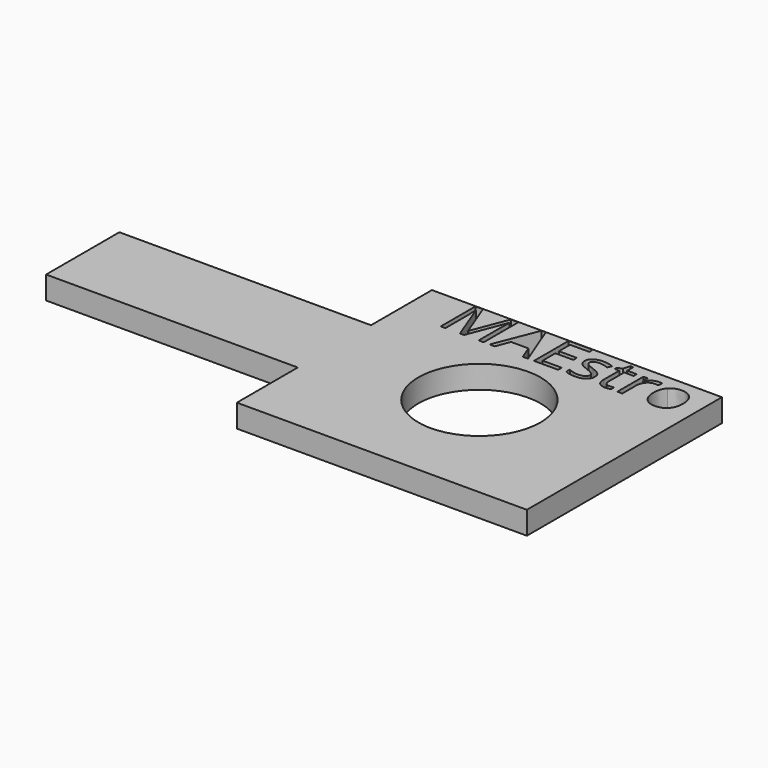
from build123d import *

# Parameters (mm, degrees)
F0_R     = 8
F0_W     = 3.0211615264
F0_H     = 12
F0_W_2   = 32.9788384736
F1_DEPTH = 3


with BuildPart() as f1:
    # F0 (on Top) → F1 (new body)
    with BuildSketch(Plane.XY):
        Polygon((14.9788384736, 6), (18, 6), (18, -6), (14.9788384736, -6), (14.9788384736, -15.9729579464), (52.9788384736, -15.9729579464), (52.9788384736, 15.9729579464), (14.9788384736, 15.9729579464), align=None)
        with Locations((33.9788384736, 0)):
            Circle(F0_R, mode=Mode.SUBTRACT)
        with BuildLine():
            Line((23.7611867672, 10.2442298084), (23.2290913585, 10.2442298084))
            Line((23.2290913585, 10.2442298084), (21.3021103226, 15.2792447734))
            Line((21.3021103226, 15.2792447734), (21.2710299833, 15.2792447734))
            add(Edge.make_bspline(
                [(21.2710299833, 15.2792447734), (21.3257313804, 14.6812590455), (21.3257313804, 13.8570084475)],
                knots=[0, 0, 0, 1, 1, 1], degree=2))
            Line((21.3257313804, 13.8570084475), (21.3257313804, 10.2442298084))
            Line((21.3257313804, 10.2442298084), (20.7153135168, 10.2442298084))
            Line((20.7153135168, 10.2442298084), (20.7153135168, 15.9244726171))
            Line((20.7153135168, 15.9244726171), (21.709884374, 15.9244726171))
            Line((21.709884374, 15.9244726171), (23.5088144121, 11.2388006657))
            Line((23.5088144121, 11.2388006657), (23.5398947514, 11.2388006657))
            Line((23.5398947514, 11.2388006657), (25.3537433524, 15.9244726171))
            Line((25.3537433524, 15.9244726171), (26.3408549282, 15.9244726171))
            Line((26.3408549282, 15.9244726171), (26.3408549282, 10.2442298084))
            Line((26.3408549282, 10.2442298084), (25.6807085217, 10.2442298084))
            Line((25.6807085217, 10.2442298084), (25.6807085217, 13.9042505632))
            add(Edge.make_bspline(
                [(25.6807085217, 13.9042505632), (25.6807085217, 14.5333166305), (25.7354099189, 15.271785492)],
                knots=[0, 0, 0, 1, 1, 1], degree=2))
            Line((25.7354099189, 15.271785492), (25.7043295796, 15.271785492))
            Line((25.7043295796, 15.271785492), (23.7611867672, 10.2442298084))
        make_face(mode=Mode.SUBTRACT)
        Polygon((32.1528783754, 10.2442298084), (31.4691109111, 10.2442298084), (30.7617223888, 12.050619128), (28.4853983392, 12.050619128), (27.786712312, 10.2442298084), (27.1178634105, 10.2442298084), (29.3631071208, 15.9480936749), (29.9188235873, 15.9480936749), align=None, mode=Mode.SUBTRACT)
        Polygon((36.1000814652, 10.834756255), (36.1000814652, 10.2442298084), (32.9336164984, 10.2442298084), (32.9336164984, 15.9244726171), (36.1000814652, 15.9244726171), (36.1000814652, 15.3376758113), (33.5937629049, 15.3376758113), (33.5937629049, 13.5076654339), (35.9484094095, 13.5076654339), (35.9484094095, 12.9245982688), (33.5937629049, 12.9245982688), (33.5937629049, 10.834756255), align=None, mode=Mode.SUBTRACT)
        with BuildLine():
            add(Edge.make_bspline(
                [(39.7414540164, 12.1090501658), (40.0075017208, 11.8293271122), (40.0075017208, 11.4053912843)],
                knots=[0, 0, 0, 1, 1, 1], degree=2))
            add(Edge.make_bspline(
                [(40.0075017208, 11.4053912843), (40.0075017208, 10.8111351971), (39.5649176893, 10.4885212753)],
                knots=[0, 0, 0, 1, 1, 1], degree=2))
            add(Edge.make_bspline(
                [(39.5649176893, 10.4885212753), (39.1223336578, 10.1659073534), (38.3217041177, 10.1659073534)],
                knots=[0, 0, 0, 1, 1, 1], degree=2))
            add(Edge.make_bspline(
                [(38.3217041177, 10.1659073534), (37.4750756754, 10.1659073534), (37.0014113047, 10.4344414849)],
                knots=[0, 0, 0, 1, 1, 1], degree=2))
            Line((37.0014113047, 10.4344414849), (37.0014113047, 11.0324272128))
            add(Edge.make_bspline(
                [(37.0014113047, 11.0324272128), (37.3084850568, 10.8770255164), (37.6596928908, 10.788135746)],
                knots=[0, 0, 0, 1, 1, 1], degree=2))
            add(Edge.make_bspline(
                [(37.6596928908, 10.788135746), (38.0109007248, 10.6992459757), (38.3378658941, 10.6992459757)],
                knots=[0, 0, 0, 1, 1, 1], degree=2))
            add(Edge.make_bspline(
                [(38.3378658941, 10.6992459757), (38.8426106042, 10.6992459757), (39.1142527696, 10.8602421332)],
                knots=[0, 0, 0, 1, 1, 1], degree=2))
            add(Edge.make_bspline(
                [(39.1142527696, 10.8602421332), (39.385894935, 11.0212382907), (39.385894935, 11.3519331007)],
                knots=[0, 0, 0, 1, 1, 1], degree=2))
            add(Edge.make_bspline(
                [(39.385894935, 11.3519331007), (39.385894935, 11.6005758151), (39.1708189871, 11.7771121422)],
                knots=[0, 0, 0, 1, 1, 1], degree=2))
            add(Edge.make_bspline(
                [(39.1708189871, 11.7771121422), (38.9557430392, 11.9536484694), (38.3291633991, 12.1948319023)],
                knots=[0, 0, 0, 1, 1, 1], degree=2))
            add(Edge.make_bspline(
                [(38.3291633991, 12.1948319023), (37.7349073119, 12.416123918), (37.4843997772, 12.581471323)],
                knots=[0, 0, 0, 1, 1, 1], degree=2))
            add(Edge.make_bspline(
                [(37.4843997772, 12.581471323), (37.2338922425, 12.7468187281), (37.1114357057, 12.9563002149)],
                knots=[0, 0, 0, 1, 1, 1], degree=2))
            add(Edge.make_bspline(
                [(37.1114357057, 12.9563002149), (36.9889791689, 13.1657817017), (36.9889791689, 13.4566936775)],
                knots=[0, 0, 0, 1, 1, 1], degree=2))
            add(Edge.make_bspline(
                [(36.9889791689, 13.4566936775), (36.9889791689, 13.9776001639), (37.4129149969, 14.2790794551)],
                knots=[0, 0, 0, 1, 1, 1], degree=2))
            add(Edge.make_bspline(
                [(37.4129149969, 14.2790794551), (37.8368508248, 14.5805587462), (38.5740764727, 14.5805587462)],
                knots=[0, 0, 0, 1, 1, 1], degree=2))
            add(Edge.make_bspline(
                [(38.5740764727, 14.5805587462), (39.2615735778, 14.5805587462), (39.9192335572, 14.3008356926)],
                knots=[0, 0, 0, 1, 1, 1], degree=2))
            Line((39.9192335572, 14.3008356926), (39.6892390464, 13.7761995654))
            add(Edge.make_bspline(
                [(39.6892390464, 13.7761995654), (39.0489840571, 14.0397608425), (38.5280775706, 14.0397608425)],
                knots=[0, 0, 0, 1, 1, 1], degree=2))
            add(Edge.make_bspline(
                [(38.5280775706, 14.0397608425), (38.0693317627, 14.0397608425), (37.836229218, 13.896169675)],
                knots=[0, 0, 0, 1, 1, 1], degree=2))
            add(Edge.make_bspline(
                [(37.836229218, 13.896169675), (37.6031266733, 13.7525785075), (37.6031266733, 13.5002061525)],
                knots=[0, 0, 0, 1, 1, 1], degree=2))
            add(Edge.make_bspline(
                [(37.6031266733, 13.5002061525), (37.6031266733, 13.3286426796), (37.6907732301, 13.2086725699)],
                knots=[0, 0, 0, 1, 1, 1], degree=2))
            add(Edge.make_bspline(
                [(37.6907732301, 13.2086725699), (37.7784197869, 13.0887024603), (37.9723611041, 12.9799212727)],
                knots=[0, 0, 0, 1, 1, 1], degree=2))
            add(Edge.make_bspline(
                [(37.9723611041, 12.9799212727), (38.1663024212, 12.8711400852), (38.718289247, 12.6647666323)],
                knots=[0, 0, 0, 1, 1, 1], degree=2))
            add(Edge.make_bspline(
                [(38.718289247, 12.6647666323), (39.4754063121, 12.3887732195), (39.7414540164, 12.1090501658)],
                knots=[0, 0, 0, 1, 1, 1], degree=2))
        make_face(mode=Mode.SUBTRACT)
        with BuildLine():
            add(Edge.make_bspline(
                [(41.930753116, 10.9049978218), (42.1135055111, 10.6992459757), (42.4317681854, 10.6992459757)],
                knots=[0, 0, 0, 1, 1, 1], degree=2))
            add(Edge.make_bspline(
                [(42.4317681854, 10.6992459757), (42.6033316583, 10.6992459757), (42.7624629954, 10.7241102471)],
                knots=[0, 0, 0, 1, 1, 1], degree=2))
            add(Edge.make_bspline(
                [(42.7624629954, 10.7241102471), (42.9215943326, 10.7489745185), (43.0148353505, 10.7763252171)],
                knots=[0, 0, 0, 1, 1, 1], degree=2))
            Line((43.0148353505, 10.7763252171), (43.0148353505, 10.2827694292))
            add(Edge.make_bspline(
                [(43.0148353505, 10.2827694292), (42.9104054104, 10.2330408863), (42.7065183847, 10.1994741199)],
                knots=[0, 0, 0, 1, 1, 1], degree=2))
            add(Edge.make_bspline(
                [(42.7065183847, 10.1994741199), (42.502631359, 10.1659073534), (42.3385271675, 10.1659073534)],
                knots=[0, 0, 0, 1, 1, 1], degree=2))
            add(Edge.make_bspline(
                [(42.3385271675, 10.1659073534), (41.1040160909, 10.1659073534), (41.1040160909, 11.4675519629)],
                knots=[0, 0, 0, 1, 1, 1], degree=2))
            Line((41.1040160909, 11.4675519629), (41.1040160909, 14.0012212218))
            Line((41.1040160909, 14.0012212218), (40.4935982273, 14.0012212218))
            Line((40.4935982273, 14.0012212218), (40.4935982273, 14.3120246147))
            Line((40.4935982273, 14.3120246147), (41.1040160909, 14.5805587462))
            Line((41.1040160909, 14.5805587462), (41.3750366495, 15.489347867))
            Line((41.3750366495, 15.489347867), (41.748000721, 15.489347867))
            Line((41.748000721, 15.489347867), (41.748000721, 14.5022362912))
            Line((41.748000721, 14.5022362912), (42.9837550112, 14.5022362912))
            Line((42.9837550112, 14.5022362912), (42.9837550112, 14.0012212218))
            Line((42.9837550112, 14.0012212218), (41.748000721, 14.0012212218))
            Line((41.748000721, 14.0012212218), (41.748000721, 11.4949026615))
            add(Edge.make_bspline(
                [(41.748000721, 11.4949026615), (41.748000721, 11.1107496679), (41.930753116, 10.9049978218)],
                knots=[0, 0, 0, 1, 1, 1], degree=2))
        make_face(mode=Mode.SUBTRACT)
        with BuildLine():
            add(Edge.make_bspline(
                [(45.073597025, 14.3549154829), (45.4080214758, 14.5805587462), (45.8083362458, 14.5805587462)],
                knots=[0, 0, 0, 1, 1, 1], degree=2))
            add(Edge.make_bspline(
                [(45.8083362458, 14.5805587462), (46.0917889402, 14.5805587462), (46.3168105966, 14.5333166305)],
                knots=[0, 0, 0, 1, 1, 1], degree=2))
            Line((46.3168105966, 14.5333166305), (46.2272992195, 13.9353309025))
            add(Edge.make_bspline(
                [(46.2272992195, 13.9353309025), (45.9637379423, 13.9937619404), (45.7610941301, 13.9937619404)],
                knots=[0, 0, 0, 1, 1, 1], degree=2))
            add(Edge.make_bspline(
                [(45.7610941301, 13.9937619404), (45.2439172843, 13.9937619404), (44.8771692807, 13.57417736)],
                knots=[0, 0, 0, 1, 1, 1], degree=2))
            add(Edge.make_bspline(
                [(44.8771692807, 13.57417736), (44.5104212771, 13.1545927796), (44.5104212771, 12.529256353)],
                knots=[0, 0, 0, 1, 1, 1], degree=2))
            Line((44.5104212771, 12.529256353), (44.5104212771, 10.2442298084))
            Line((44.5104212771, 10.2442298084), (43.8651934334, 10.2442298084))
            Line((43.8651934334, 10.2442298084), (43.8651934334, 14.5022362912))
            Line((43.8651934334, 14.5022362912), (44.3972888421, 14.5022362912))
            Line((44.3972888421, 14.5022362912), (44.4718816564, 13.7140388868))
            Line((44.4718816564, 13.7140388868), (44.5029619957, 13.7140388868))
            add(Edge.make_bspline(
                [(44.5029619957, 13.7140388868), (44.7391725743, 14.1292722197), (45.073597025, 14.3549154829)],
                knots=[0, 0, 0, 1, 1, 1], degree=2))
        make_face(mode=Mode.SUBTRACT)
        with BuildLine():
            add(Edge.make_bspline(
                [(50.2621488661, 13.9856810522), (50.7886498136, 13.3908033582), (50.7886498136, 12.3775842973)],
                knots=[0, 0, 0, 1, 1, 1], degree=2))
            add(Edge.make_bspline(
                [(50.7886498136, 12.3775842973), (50.7886498136, 11.3357713243), (50.2646352932, 10.7508393389)],
                knots=[0, 0, 0, 1, 1, 1], degree=2))
            add(Edge.make_bspline(
                [(50.2646352932, 10.7508393389), (49.7406207728, 10.1659073534), (48.8156698755, 10.1659073534)],
                knots=[0, 0, 0, 1, 1, 1], degree=2))
            add(Edge.make_bspline(
                [(48.8156698755, 10.1659073534), (48.2437916326, 10.1659073534), (47.8012076011, 10.4344414849)],
                knots=[0, 0, 0, 1, 1, 1], degree=2))
            add(Edge.make_bspline(
                [(47.8012076011, 10.4344414849), (47.3586235696, 10.7029756164), (47.1174401367, 11.2039906857)],
                knots=[0, 0, 0, 1, 1, 1], degree=2))
            add(Edge.make_bspline(
                [(47.1174401367, 11.2039906857), (46.8762567038, 11.7050057551), (46.8762567038, 12.3775842973)],
                knots=[0, 0, 0, 1, 1, 1], degree=2))
            add(Edge.make_bspline(
                [(46.8762567038, 12.3775842973), (46.8762567038, 13.4181540567), (47.3971631903, 13.9993564015)],
                knots=[0, 0, 0, 1, 1, 1], degree=2))
            add(Edge.make_bspline(
                [(47.3971631903, 13.9993564015), (47.9180696768, 14.5805587462), (48.8430205741, 14.5805587462)],
                knots=[0, 0, 0, 1, 1, 1], degree=2))
            add(Edge.make_bspline(
                [(48.8430205741, 14.5805587462), (49.7356479185, 14.5805587462), (50.2621488661, 13.9856810522)],
                knots=[0, 0, 0, 1, 1, 1], degree=2))
        make_face(mode=Mode.SUBTRACT)
        with Locations((16.4894192368, 0)):
            Rectangle(F0_W, F0_H)
        with Locations((-1.5105807632, 0)):
            Rectangle(F0_W_2, F0_H)
    extrude(amount=F1_DEPTH)


solid = f1.part
